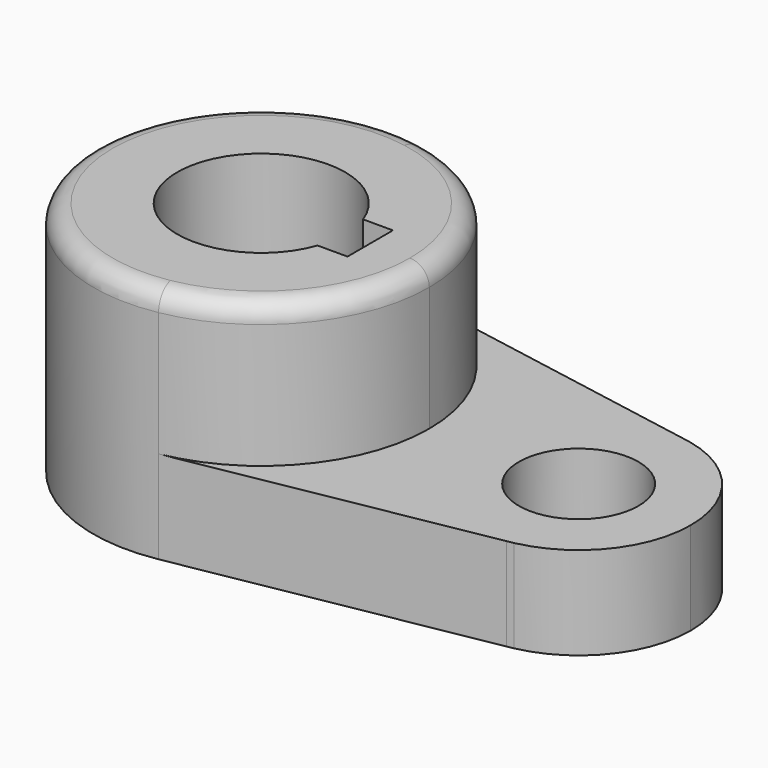
from build123d import *

# Parameters (mm, degrees)
F0_R     = 10.16
F1_DEPTH = 15.7734
F2_DEPTH = 40.2336
F3_R     = 3.302


with BuildPart() as f1:
    # F0 (on Top) → F1 (new body)
    with BuildSketch(Plane.XY):
        with BuildLine():
            ThreePointArc((5.046973, -28.125766), (21.917435, -18.334576), (28.575, 0))
            ThreePointArc((28.575, 0), (21.917435, 18.334576), (5.046973, 28.125766))
            ThreePointArc((5.046973, 28.125766), (-28.575, 0), (5.046973, -28.125766))
        make_face()
        with BuildLine():
            ThreePointArc((13.447765, -4.826), (-14.2875, 0), (13.447765, 4.826))
            Line((13.447765, 4.826), (18.5293, 4.826))
            Line((18.5293, 4.826), (18.5293, -4.826))
            Line((18.5293, -4.826), (13.447765, -4.826))
        make_face(mode=Mode.SUBTRACT)
        with BuildLine():
            ThreePointArc((5.046973, 28.125766), (21.917435, 18.334576), (28.575, 0))
            ThreePointArc((28.575, 0), (21.917435, -18.334576), (5.046973, -28.125766))
            Line((5.046973, -28.125766), (56.789061, -18.841007))
            ThreePointArc((56.789061, -18.841007), (34.925, 0), (56.789061, 18.841007))
            Line((56.789061, 18.841007), (5.046973, 28.125766))
        make_face()
        with BuildLine():
            Line((57.88735, 18.643927), (56.789061, 18.841007))
            ThreePointArc((56.789061, 18.841007), (34.925, 0), (56.789061, -18.841007))
            Line((56.789061, -18.841007), (57.88735, -18.643927))
            ThreePointArc((57.88735, -18.643927), (68.764063, -12.007752), (73.025, 0))
            ThreePointArc((73.025, 0), (68.764063, 12.007752), (57.88735, 18.643927))
        make_face()
        with Locations((53.975, 0)):
            Circle(F0_R, mode=Mode.SUBTRACT)
        with BuildLine():
            ThreePointArc((57.88735, 18.643927), (57.339649, 18.75051), (56.789061, 18.841007))
            Line((56.789061, 18.841007), (57.88735, 18.643927))
        make_face()
        with BuildLine():
            Line((57.88735, -18.643927), (56.789061, -18.841007))
            ThreePointArc((56.789061, -18.841007), (57.339649, -18.75051), (57.88735, -18.643927))
        make_face()
    extrude(amount=F1_DEPTH)

    # F0 (on Top) → F2 (join)
    with BuildSketch(Plane.XY):
        with BuildLine():
            ThreePointArc((5.046973, -28.125766), (21.917435, -18.334576), (28.575, 0))
            ThreePointArc((28.575, 0), (21.917435, 18.334576), (5.046973, 28.125766))
            ThreePointArc((5.046973, 28.125766), (-28.575, 0), (5.046973, -28.125766))
        make_face()
        with BuildLine():
            ThreePointArc((13.447765, -4.826), (-14.2875, 0), (13.447765, 4.826))
            Line((13.447765, 4.826), (18.5293, 4.826))
            Line((18.5293, 4.826), (18.5293, -4.826))
            Line((18.5293, -4.826), (13.447765, -4.826))
        make_face(mode=Mode.SUBTRACT)
    extrude(amount=F2_DEPTH)

    # F3
    f3_edges = [f1.edges().sort_by_distance(p)[0] for p in [
        (-5.046973, 28.125766, 40.2336),
    ]]
    fillet(f3_edges, radius=F3_R)


solid = f1.part
